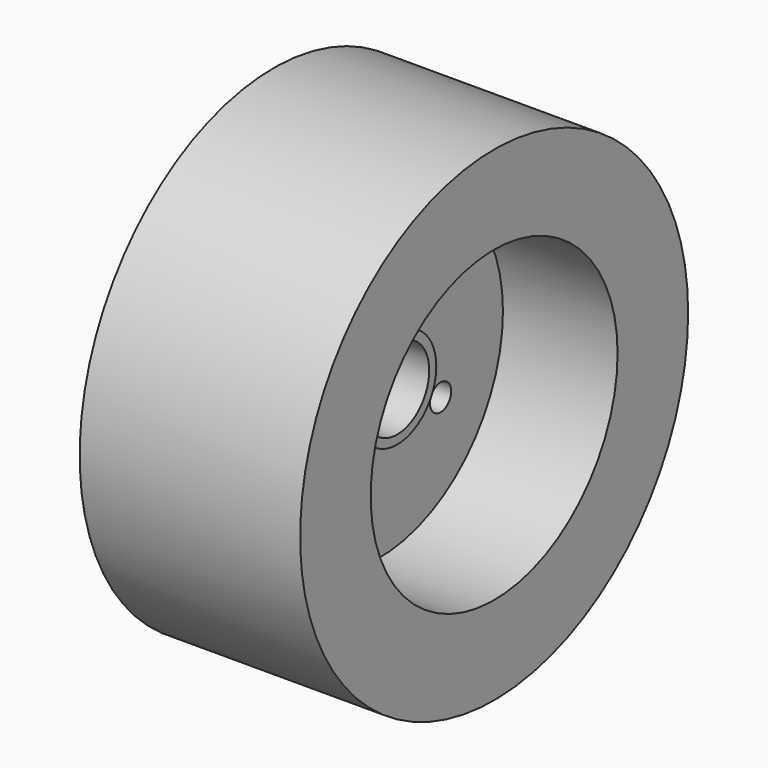
from build123d import *

# Parameters (mm, degrees)
SKETCH_R      = 27.5
SKETCH_R_2    = 17.5
PAD_DEPTH     = 25
SKETCH001_R   = 17.5
SKETCH001_R_2 = 4.55
SKETCH001_R_3 = 1.5
PAD001_DEPTH  = 16
SKETCH002_R   = 17.5
POCKET_DEPTH  = 13
SKETCH003_R   = 5.55
SKETCH003_R_2 = 4.55
PAD002_DEPTH  = 2
SKETCH004_R   = 5.55
SKETCH004_R_2 = 4.55
PAD003_DEPTH  = 2


with BuildPart() as part:
    # Sketch → Pad (new body)
    with BuildSketch(Plane.YZ):
        Circle(SKETCH_R)
        Circle(SKETCH_R_2, mode=Mode.SUBTRACT)
    extrude(amount=-PAD_DEPTH)

    # Sketch001 → Pad001 (join)
    with BuildSketch(Plane.YZ):
        Circle(SKETCH001_R)
        Circle(SKETCH001_R_2, mode=Mode.SUBTRACT)
        with Locations((0, 10)):
            Circle(SKETCH001_R_3, mode=Mode.SUBTRACT)
        with Locations((-8.660254, -5)):
            Circle(SKETCH001_R_3, mode=Mode.SUBTRACT)
        with Locations((8.660254, -5)):
            Circle(SKETCH001_R_3, mode=Mode.SUBTRACT)
    extrude(amount=-PAD001_DEPTH)

    # Sketch002 → Pocket (cut)
    with BuildSketch(Plane.YZ):
        Circle(SKETCH002_R)
    extrude(amount=-POCKET_DEPTH, mode=Mode.SUBTRACT)

    # Sketch003 (on Face6 of Pocket) → Pad002 (join)
    with BuildSketch(Plane.YZ.offset(-13)):
        Circle(SKETCH003_R)
        Circle(SKETCH003_R_2, mode=Mode.SUBTRACT)
    extrude(amount=PAD002_DEPTH)

    # Sketch004 (on Face7 of Pad002) → Pad003 (join)
    with BuildSketch(Plane(origin=(-16, 0, 0), x_dir=(0, 1, 0), z_dir=(-1, 0, 0))):
        Circle(SKETCH004_R)
        Circle(SKETCH004_R_2, mode=Mode.SUBTRACT)
    extrude(amount=PAD003_DEPTH)


solid = part.part
